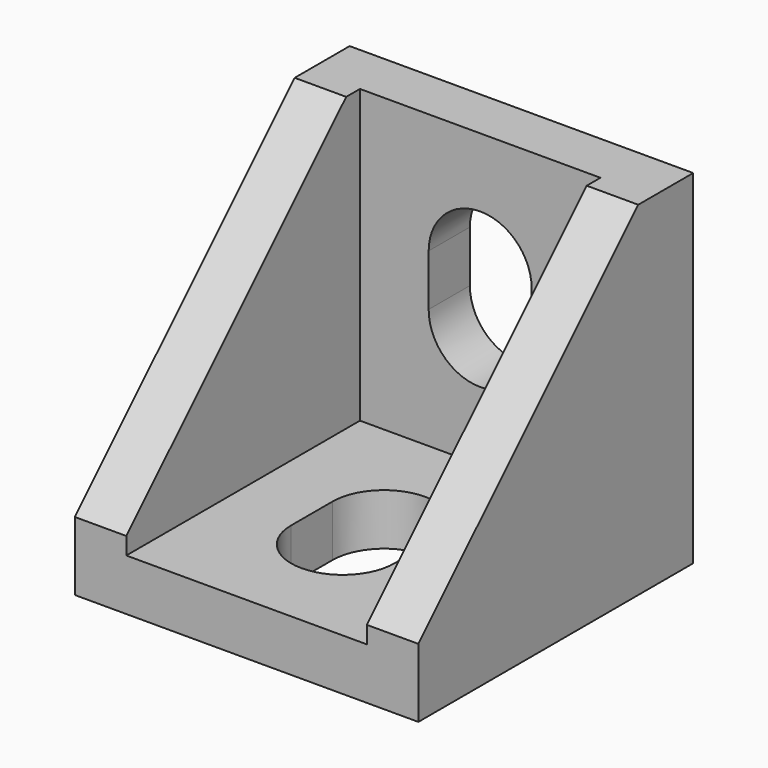
from build123d import *

# Parameters (mm, degrees)
PAD102_DEPTH            = 20
THICKNESS001_T          = -3
POCKET077_DEPTH         = 5
POCKET078_DEPTH         = 5
BODY125_PLACEMENT_ANGLE = 270


with BuildPart() as part:
    # Sketch211 (on XZ_Plane1033 of Origin1405) → Pad102 (new body)
    with BuildSketch(Plane.XZ):
        Polygon((0, 0), (0, 20), (4, 20), (20, 4), (20, 0), align=None)
    extrude(amount=PAD102_DEPTH)

    # Thickness001
    thickness001_openings = [part.faces().sort_by_distance(p)[0] for p in [
        (2, -10, 20),
        (12, -10, 12),
        (20, -10, 2),
    ]]
    offset(amount=THICKNESS001_T, openings=thickness001_openings)

    # Sketch212 (on Face11 of Thickness001) → Pocket077 (cut)
    with BuildSketch(Plane.YZ.offset(3)):
        with BuildLine():
            ThreePointArc((-7, 13), (-10, 16), (-13, 13))
            Line((-13, 13), (-13, 10))
            ThreePointArc((-13, 10), (-10, 7), (-7, 10))
            Line((-7, 13), (-7, 10))
        make_face()
    extrude(amount=-POCKET077_DEPTH, mode=Mode.SUBTRACT)

    # Sketch213 (on Face16 of Pocket077) → Pocket078 (cut)
    with BuildSketch(Plane.XY.offset(3)):
        with BuildLine():
            ThreePointArc((10, -7), (7, -10), (10, -13))
            Line((10, -13), (13, -13))
            ThreePointArc((13, -13), (16, -10), (13, -7))
            Line((10, -7), (13, -7))
        make_face()
    extrude(amount=-POCKET078_DEPTH, mode=Mode.SUBTRACT)


with BuildPart() as part_1:
    # Body125 placement: moved
    add(part.part.moved(Location((-140, 230, -33))).rotate(Axis((-140, 230, -33), (0, 0, 1)), BODY125_PLACEMENT_ANGLE))


solid = part_1.part
